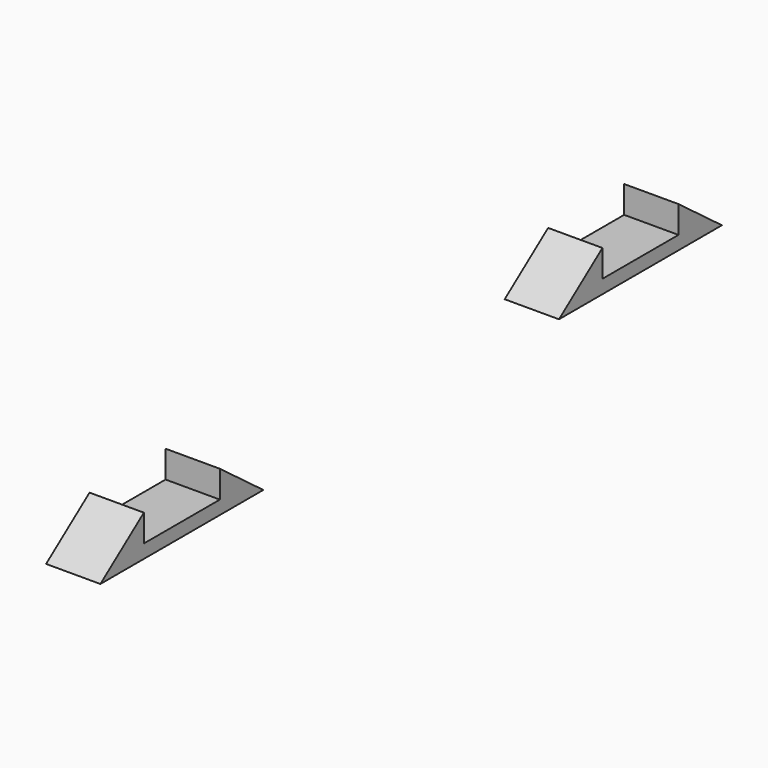
from build123d import *

# Parameters (mm, degrees)
F1_DEPTH = 20


with BuildPart() as f1:
    # F0 (on Right) → F1 (new body)
    with BuildSketch(Plane.YZ):
        Polygon((-143.042043, 0), (-68.042043, 0), (-88.042043, 15), (-88.042043, 5), (-123.042043, 5), (-123.042043, 15), align=None)
    extrude(amount=F1_DEPTH)


with BuildPart() as f2_1:
    # F2: instance of F1
    add(f1.part.mirror(Plane.XZ))


solid = Compound([f1.part, f2_1.part])
